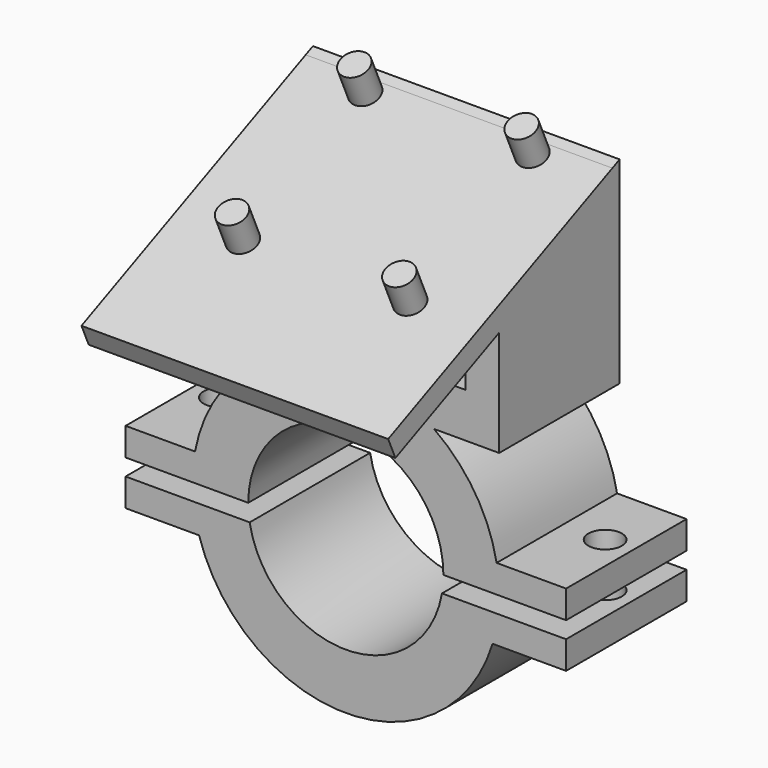
from build123d import *

# Parameters (mm, degrees)
F0_R      = 27.5
F0_R_2    = 17.5
F1_DEPTH  = 27
F3_DEPTH  = 27
F5_DEPTH  = 6
F7_DEPTH  = 4
F9_DEPTH  = 27.001
F10_W     = 12
F10_H     = 27
F10_R     = 3
F10_W_2   = 3
F11_DEPTH = 5
F12_W     = 22
F12_H     = 27
F12_R     = 3
F13_DEPTH = 5
F15_DEPTH = 4
F16_R     = 2.5
F17_DEPTH = 6
F19_DEPTH = 55


with BuildPart() as f1:
    # F0 (on Front) → F1 (new body)
    with BuildSketch(Plane.XZ):
        Circle(F0_R)
        Circle(F0_R_2, mode=Mode.SUBTRACT)
    extrude(amount=F1_DEPTH)

    # F2 (on face) → F3 (join)
    with BuildSketch(Plane.XZ.offset(27)):
        with BuildLine():
            ThreePointArc((-15.8113883008, 22.5), (0, 27.5), (15.8113883008, 22.5))
            Line((15.8113883008, 22.5), (27.5, 22.5))
            Line((27.5, 22.5), (27.5, 30.5))
            Line((27.5, 30.5), (-27.5, 30.5))
            Line((-27.5, 30.5), (-27.5, 22.5))
            Line((-27.5, 22.5), (-15.8113883008, 22.5))
        make_face()
        with BuildLine():
            Line((-15.8113883008, 22.5), (15.8113883008, 22.5))
            ThreePointArc((15.8113883008, 22.5), (0, 27.5), (-15.8113883008, 22.5))
        make_face()
        with BuildLine():
            ThreePointArc((-15.8113883008, 22.5), (0, 27.5), (15.8113883008, 22.5))
            Line((15.8113883008, 22.5), (27.5, 22.5))
            Line((27.5, 22.5), (27.5, 30.5))
            Line((27.5, 30.5), (-27.5, 30.5))
            Line((-27.5, 30.5), (-27.5, 22.5))
            Line((-27.5, 22.5), (-15.8113883008, 22.5))
        make_face()
    extrude(amount=-F3_DEPTH)

    # F4 (on face) → F5 (join)
    with BuildSketch(Plane.YZ.offset(27.5)):
        Polygon((-27, 41.5), (-27, 30.5), (0, 30.5), (0, 53.5), align=None)
    extrude(amount=-F5_DEPTH)

    # F6 (on face) → F7 (join)
    with BuildSketch(Plane(origin=(-27.5, 0, 0), x_dir=(0, -1, 0), z_dir=(-1, 0, 0))):
        Polygon((27, 41.5), (0, 53.5), (0, 22.5), (27, 22.5), align=None)
    extrude(amount=-F7_DEPTH)

    # F8 (on face) → F9 (cut, through all)
    with BuildSketch(Plane(origin=(0, 0, 0), x_dir=(-1, 0, 0), z_dir=(0, 1, 0))):
        with BuildLine():
            ThreePointArc((-27.3358738657, -3), (-27.45893781, -1.5022431052), (-27.5, 0))
            Line((-27.5, 0), (-27.5, -3))
            Line((-27.5, -3), (-27.3358738657, -3))
        make_face()
        with BuildLine():
            Line((27.5, -3), (27.5, 0))
            ThreePointArc((27.5, 0), (27.45893781, -1.5022431052), (27.3358738657, -3))
            Line((27.3358738657, -3), (27.5, -3))
        make_face()
        with BuildLine():
            ThreePointArc((-17.2409396496, -3), (-17.4351146235, -1.5055823014), (-17.5, 0))
            Line((-17.5, 0), (-27.5, 0))
            ThreePointArc((-27.5, 0), (-27.45893781, -1.5022431052), (-27.3358738657, -3))
            Line((-27.3358738657, -3), (-17.2409396496, -3))
        make_face()
        with BuildLine():
            Line((27.5, 0), (17.5, 0))
            ThreePointArc((17.5, 0), (17.4351146235, -1.5055823014), (17.2409396496, -3))
            Line((17.2409396496, -3), (27.3358738657, -3))
            ThreePointArc((27.3358738657, -3), (27.45893781, -1.5022431052), (27.5, 0))
        make_face()
    extrude(amount=-F9_DEPTH, mode=Mode.SUBTRACT)

    # F10 (on face) → F11 (join)
    with BuildSketch(Plane(origin=(0, 0, 0), x_dir=(1, 0, 0), z_dir=(0, 0, -1))):
        with Locations((33.5, 13.5)):
            Rectangle(F10_W, F10_H)
        with Locations((34.5, 12)):
            Circle(F10_R, mode=Mode.SUBTRACT)
        with Locations((26, 13.5)):
            Rectangle(F10_W_2, F10_H)
        with Locations((-26, 13.5)):
            Rectangle(F10_W_2, F10_H)
        with Locations((-33.5, 13.5)):
            Rectangle(F10_W, F10_H)
        with Locations((-34.5, 12)):
            Circle(F10_R, mode=Mode.SUBTRACT)
    extrude(amount=-F11_DEPTH)

    # F12 (on face) → F13 (join)
    with BuildSketch(Plane.XY.offset(-3)):
        with Locations((-28.5, -13.5)):
            Rectangle(F12_W, F12_H)
        with Locations((-34.5, -12)):
            Circle(F12_R, mode=Mode.SUBTRACT)
        with Locations((28.5, -13.5)):
            Rectangle(F12_W, F12_H)
        with Locations((34.5, -12)):
            Circle(F12_R, mode=Mode.SUBTRACT)
    extrude(amount=-F13_DEPTH)

    # F14 (on face) → F15 (join)
    with BuildSketch(Plane(origin=(0, -19.8556701031, 44.675257732), x_dir=(1, 0, 0), z_dir=(0, -0.4061384661, 0.9138115486))):
        Polygon((27.5, 21.7284079339), (-27.5, 21.7284079339), (-27.5, -33.2715920661), (27.5, -33.2715920661), (27.5, -7.8181654715), align=None)
    extrude(amount=F15_DEPTH)

    # F16 (on face) → F17 (join)
    with BuildSketch(Plane(origin=(0, -21.4802239673, 48.3305039264), x_dir=(1, 0, 0), z_dir=(0, -0.4061384661, 0.9138115486))):
        with Locations((-15, -10.7715920661)):
            Circle(F16_R)
        with Locations((-15, 19.2284079339)):
            Circle(F16_R)
        with Locations((15, 19.2284079339)):
            Circle(F16_R)
        with Locations((15, -10.7715920661)):
            Circle(F16_R)
    extrude(amount=F17_DEPTH)

    # F18 (on face) → F19 (join, through all)
    with BuildSketch(Plane.YZ.offset(27.5)):
        Polygon((0, 57.8772701341), (-1.6245538642, 57.1552461945), (0, 53.5), align=None)
    extrude(amount=-F19_DEPTH)


solid = f1.part
